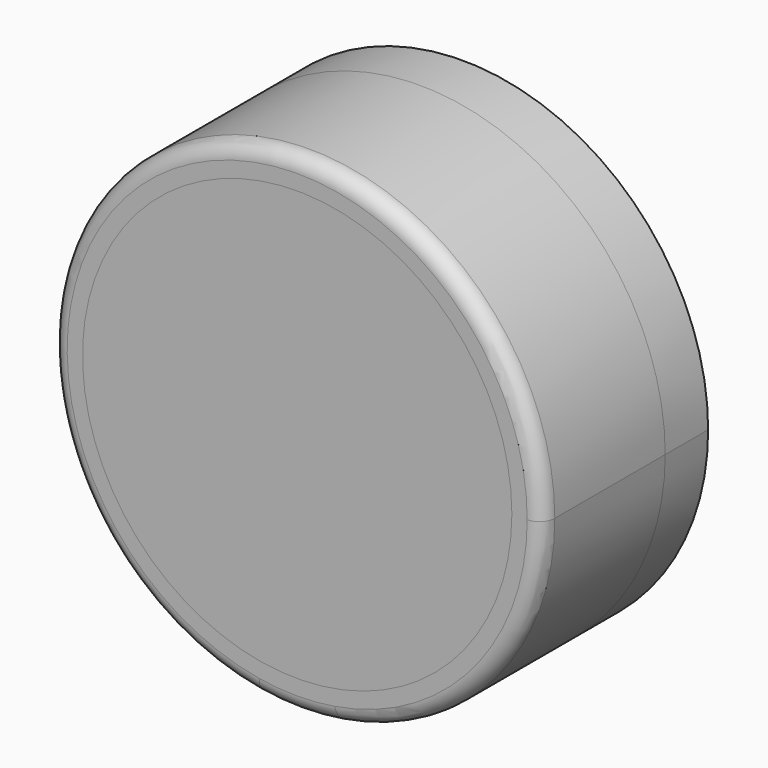
from build123d import *

# Parameters (mm, degrees)
F0_R     = 14
F1_DEPTH = 3.5
F2_DEPTH = 10
F3_START = 8
F3_DEPTH = 2
F4_R     = 1


with BuildPart() as f1:
    # F0 (on Front) → F1 (new body)
    with BuildSketch(Plane.XZ):
        with BuildLine():
            ThreePointArc((2.6195479008, -15.7841049412), (12.2047688715, -10.3461885153), (16, 0))
            ThreePointArc((16, 0), (-10.3461885153, 12.2047688715), (-2.6195479008, -15.7841049412))
            ThreePointArc((-2.6195479008, -15.7841049412), (0, -14.9760404944), (2.6195479008, -15.7841049412))
        make_face()
        Circle(F0_R, mode=Mode.SUBTRACT)
    extrude(amount=-F1_DEPTH)

    # F0 (on Front) → F2 (join)
    with BuildSketch(Plane.XZ):
        with BuildLine():
            ThreePointArc((2.6195479008, -15.7841049412), (0, -14.9760404944), (-2.6195479008, -15.7841049412))
            ThreePointArc((-2.6195479008, -15.7841049412), (0, -16), (2.6195479008, -15.7841049412))
        make_face()
        with BuildLine():
            ThreePointArc((2.6195479008, -15.7841049412), (12.2047688715, -10.3461885153), (16, 0))
            ThreePointArc((16, 0), (-10.3461885153, 12.2047688715), (-2.6195479008, -15.7841049412))
            ThreePointArc((-2.6195479008, -15.7841049412), (0, -14.9760404944), (2.6195479008, -15.7841049412))
        make_face()
        Circle(F0_R, mode=Mode.SUBTRACT)
    extrude(amount=F2_DEPTH)

    # F0 (on Front) → F3 (join)
    with BuildSketch(Plane.XZ.offset(F3_START)):
        Circle(F0_R)
    extrude(amount=F3_DEPTH)

    # F4
    f4_edges = [f1.edges().sort_by_distance(p)[0] for p in [
        (-2.619548, -10, 15.784105),
        (-14, 3.5, 0),
    ]]
    fillet(f4_edges, radius=F4_R)


solid = f1.part
